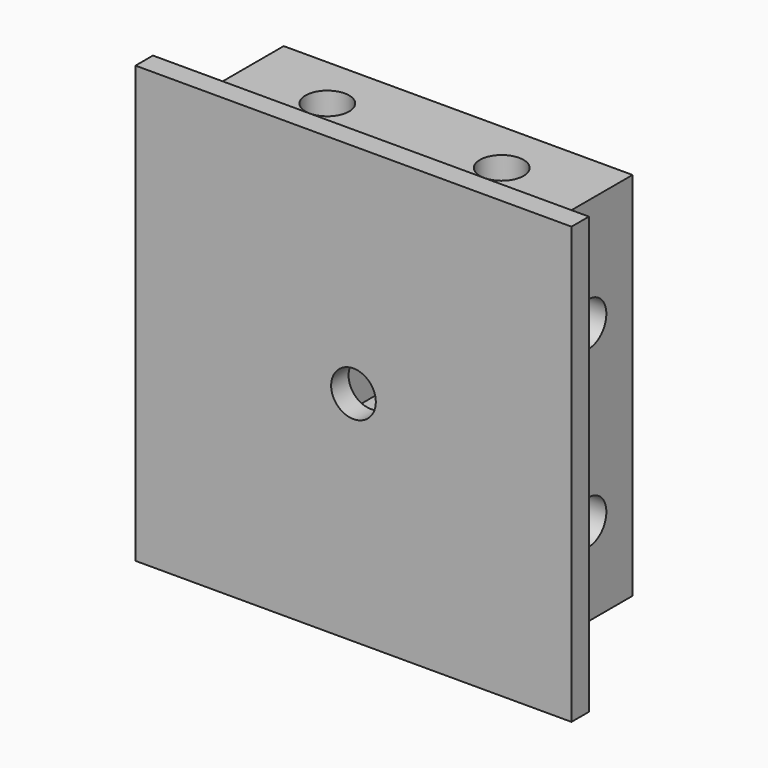
from build123d import *

# Parameters (mm, degrees)
SKETCH003_W     = 40
SKETCH003_H     = 40
SKETCH003_R     = 2.05
PAD003_DEPTH    = 2
SKETCH006_W     = 32
SKETCH006_H     = 34
SKETCH006_W_2   = 14
SKETCH006_H_2   = 16
PAD005_DEPTH    = 10
SKETCH029_R     = 2
POCKET010_DEPTH = 8
SKETCH030_R     = 2
POCKET011_DEPTH = 8
SKETCH031_R     = 2
POCKET012_DEPTH = 8


with BuildPart() as part:
    # Sketch003 → Pad003 (new body)
    with BuildSketch(Plane.XZ):
        with Locations((0, 20)):
            Rectangle(SKETCH003_W, SKETCH003_H)
        with Locations((0, 20)):
            Circle(SKETCH003_R, mode=Mode.SUBTRACT)
    extrude(amount=PAD003_DEPTH)

    # Sketch006 (on Face6 of Pad003) → Pad005 (join)
    with BuildSketch(Plane(origin=(0, 0, 0), x_dir=(1, 0, 0), z_dir=(0, 1, 0))):
        with Locations((0, -21)):
            Rectangle(SKETCH006_W, SKETCH006_H)
        with Locations((0, -21)):
            Rectangle(SKETCH006_W_2, SKETCH006_H_2, mode=Mode.SUBTRACT)
    extrude(amount=PAD005_DEPTH)

    # Sketch029 (on Face8 of Pad005) → Pocket010 (cut)
    with BuildSketch(Plane(origin=(0, 0, 38), x_dir=(-1, 0, 0), z_dir=(0, 0, 1))):
        with Locations((-8, -5)):
            Circle(SKETCH029_R)
        with Locations((8, -5)):
            Circle(SKETCH029_R)
    extrude(amount=-POCKET010_DEPTH, mode=Mode.SUBTRACT)

    # Sketch030 (on Face7 of Pocket010) → Pocket011 (cut)
    with BuildSketch(Plane(origin=(-16, 0, 0), x_dir=(0, 0, -1), z_dir=(-1, 0, 0))):
        with Locations((-28, -5)):
            Circle(SKETCH030_R)
        with Locations((-12, -5)):
            Circle(SKETCH030_R)
    extrude(amount=-POCKET011_DEPTH, mode=Mode.SUBTRACT)

    # Sketch031 (on Face9 of Pocket011) → Pocket012 (cut)
    with BuildSketch(Plane(origin=(16, 0, 0), x_dir=(0, 0, 1), z_dir=(1, 0, 0))):
        with Locations((12, -5)):
            Circle(SKETCH031_R)
        with Locations((28, -5)):
            Circle(SKETCH031_R)
    extrude(amount=-POCKET012_DEPTH, mode=Mode.SUBTRACT)


with BuildPart() as part_1:
    # Body003 placement: moved
    add(part.part.moved(Location((0, -1000, 0))))


solid = part_1.part
